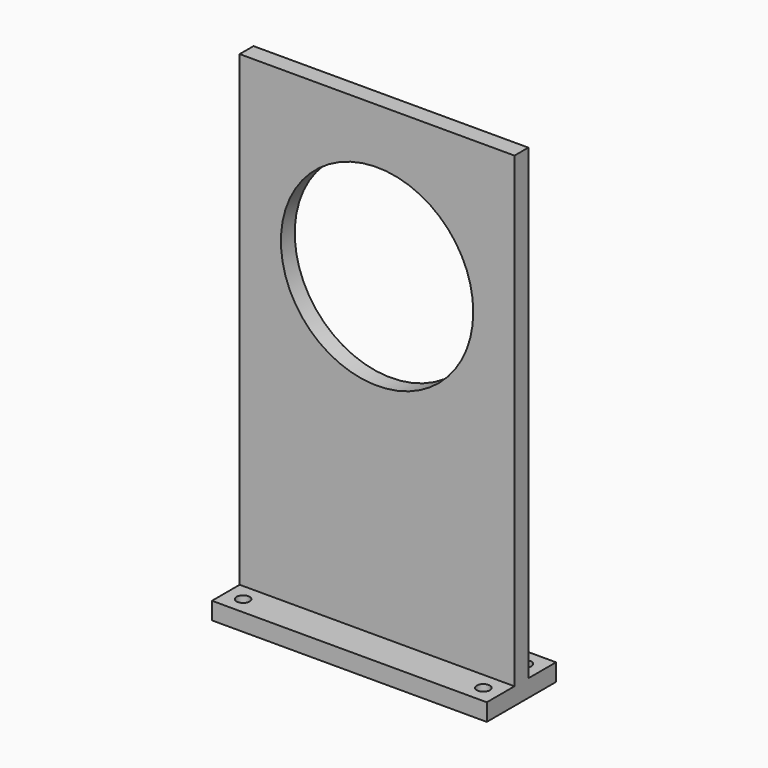
from build123d import *

# Parameters (mm, degrees)
F0_W     = 63.5
F0_H     = 107.95
F0_R     = 22.225
F1_DEPTH = 2
F2_W     = 63.5
F2_H     = 4
F3_DEPTH = 10
F4_R     = 1.5
F5_DEPTH = 25
F6_R     = 1.5
F7_DEPTH = 25


with BuildPart() as f1:
    # F0 (on Front) → F1 (new body, symmetric)
    with BuildSketch(Plane.XZ):
        with Locations((31.75, 53.975)):
            Rectangle(F0_W, F0_H)
        with Locations((31.75, 73.025)):
            Circle(F0_R, mode=Mode.SUBTRACT)
    extrude(amount=F1_DEPTH, both=True)

    # F2 (on Front) → F3 (join, symmetric)
    with BuildSketch(Plane.XZ):
        with Locations((31.75, -2)):
            Rectangle(F2_W, F2_H)
    extrude(amount=F3_DEPTH, both=True)

    # F4 (on face) → F5 (cut)
    with BuildSketch(Plane.XY):
        with Locations((4, 6)):
            Circle(F4_R)
        with Locations((59.5, 6)):
            Circle(F4_R)
    extrude(amount=-F5_DEPTH, mode=Mode.SUBTRACT)

    # F6 (on face) → F7 (cut)
    with BuildSketch(Plane.XY):
        with Locations((4, -6)):
            Circle(F6_R)
        with Locations((59.5, -6)):
            Circle(F6_R)
    extrude(amount=-F7_DEPTH, mode=Mode.SUBTRACT)


solid = f1.part
